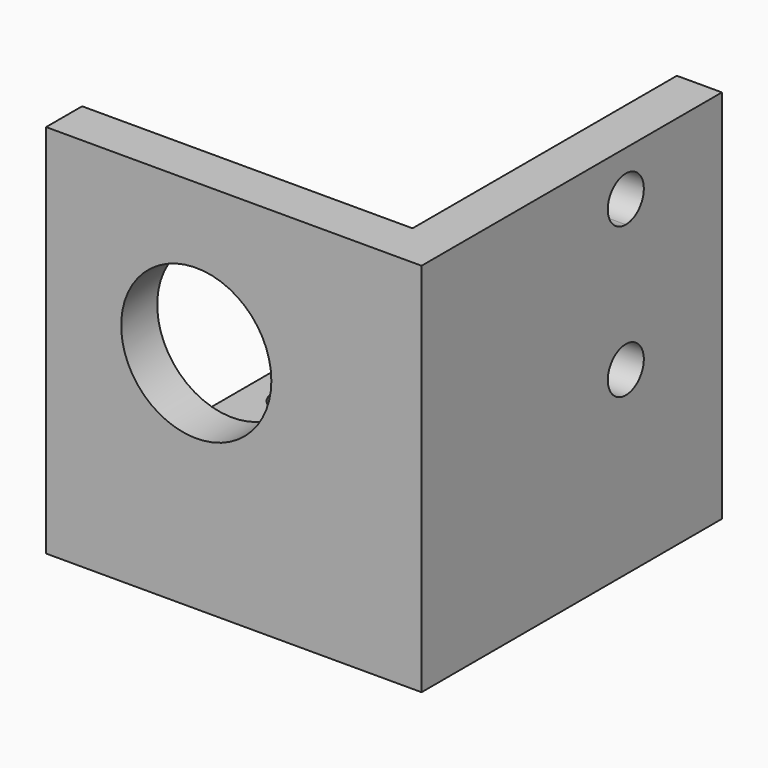
from build123d import *

# Parameters (mm, degrees)
F0_W      = 25
F0_H      = 25
F0_R      = 1.5
F1_DEPTH  = 3
F2_DEPTH  = 3
F3_W      = 25
F3_H      = 3
F4_DEPTH  = 22
F5_W      = 3
F5_H      = 22
F6_DEPTH  = 22
F8_DEPTH  = 25
F9_R      = 5
F10_DEPTH = 25


with BuildPart() as f1:
    # F0 (on Top) → F1 (new body)
    with BuildSketch(Plane.XY):
        with Locations((2.5, -4.5)):
            Rectangle(F0_W, F0_H)
        with Locations((-7, 0)):
            Circle(F0_R, mode=Mode.SUBTRACT)
        with BuildLine():
            ThreePointArc((4.5, 0), (3, -1.5), (1.5, 0))
            ThreePointArc((1.5, 0), (3, 1.5), (4.5, 0))
        make_face(mode=Mode.SUBTRACT)
    extrude(amount=F1_DEPTH)

    # F0 (on Top) → F2 (join)
    with BuildSketch(Plane.XY):
        with Locations((2.5, -4.5)):
            Rectangle(F0_W, F0_H)
        with Locations((-7, 0)):
            Circle(F0_R, mode=Mode.SUBTRACT)
        with BuildLine():
            ThreePointArc((4.5, 0), (3, -1.5), (1.5, 0))
            ThreePointArc((1.5, 0), (3, 1.5), (4.5, 0))
        make_face(mode=Mode.SUBTRACT)
    extrude(amount=F2_DEPTH)

    # F3 (on face) → F4 (join)
    with BuildSketch(Plane.XY.offset(3)):
        with Locations((2.5, -15.5)):
            Rectangle(F3_W, F3_H)
    extrude(amount=F4_DEPTH)

    # F5 (on face) → F6 (join)
    with BuildSketch(Plane(origin=(0, -14, 0), x_dir=(-1, 0, 0), z_dir=(0, 1, 0))):
        with Locations((-13.5, 14)):
            Rectangle(F5_W, F5_H)
    extrude(amount=F6_DEPTH)

    # F7 (on face) → F8 (cut)
    with BuildSketch(Plane(origin=(12, 0, 0), x_dir=(0, -1, 0), z_dir=(-1, 0, 0))):
        with BuildLine():
            ThreePointArc((1.5, 12), (1.06066, 13.06066), (0, 13.5))
            ThreePointArc((0, 13.5), (-1.06066, 10.93934), (1.5, 12))
        make_face()
        with BuildLine():
            Line((0, 22), (0, 23.5))
            ThreePointArc((0, 23.5), (-1.5, 22), (0, 20.5))
            Line((0, 20.5), (0, 22))
        make_face()
        with BuildLine():
            ThreePointArc((0, 20.5), (1.06066, 20.93934), (1.5, 22))
            ThreePointArc((1.5, 22), (1.06066, 23.06066), (0, 23.5))
            Line((0, 23.5), (0, 22))
            Line((0, 22), (0, 20.5))
        make_face()
    extrude(amount=-F8_DEPTH, mode=Mode.SUBTRACT)

    # F9 (on face) → F10 (cut)
    with BuildSketch(Plane.XZ.offset(17)):
        with Locations((0, 15)):
            Circle(F9_R)
    extrude(amount=-F10_DEPTH, mode=Mode.SUBTRACT)


solid = f1.part
